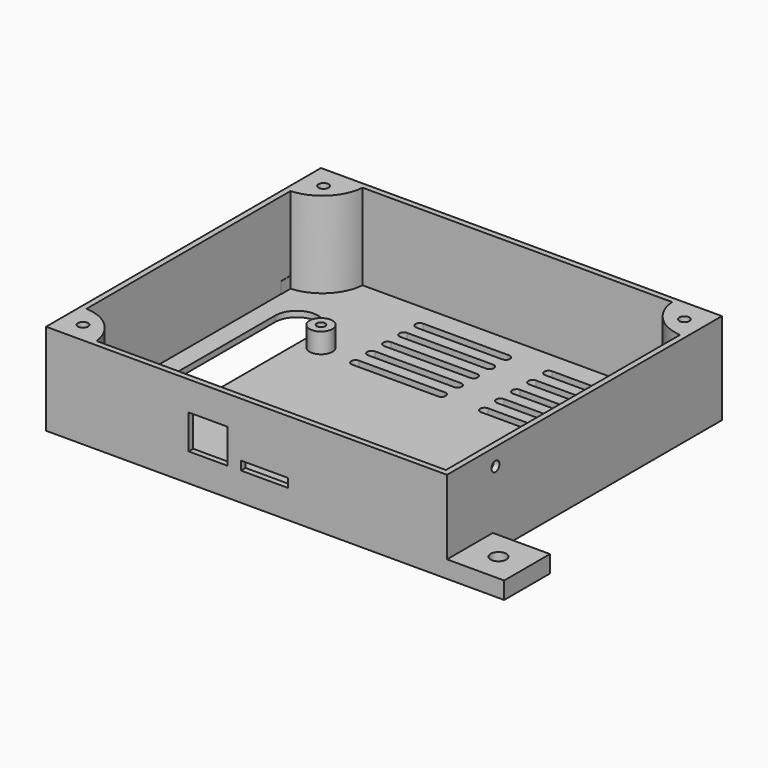
from build123d import *

# Parameters (mm, degrees)
SKETCH_W        = 140
SKETCH_H        = 120
PAD_DEPTH       = 32
THICKNESS_T     = -2
SKETCH001_R     = 4
SKETCH001_R_2   = 1.45
PAD001_DEPTH    = 7
SKETCH002_W     = 16.413659
SKETCH002_H     = 3.088
SKETCH002_W_2   = 13.5
SKETCH002_H_2   = 12
POCKET_DEPTH    = 44.151
PAD002_DEPTH    = 32
SKETCH004_R     = 1.75
POCKET001_DEPTH = 58.836
SKETCH005_R     = 1.75
POCKET002_DEPTH = 32.001001
SKETCH006_W     = 20
SKETCH006_H     = 20
SKETCH006_R     = 2.75
PAD003_DEPTH    = 6
POCKET003_DEPTH = 29
POCKET004_DEPTH = 32.001001


with BuildPart() as part:
    # Sketch → Pad (new body)
    with BuildSketch(Plane.XY):
        with Locations((-11.165, 15.85)):
            Rectangle(SKETCH_W, SKETCH_H)
    extrude(amount=PAD_DEPTH)

    # Thickness
    thickness_openings = [part.faces().sort_by_distance(p)[0] for p in [
        (-11.165, 15.85, 32),
    ]]
    offset(amount=THICKNESS_T, openings=thickness_openings, kind=Kind.INTERSECTION)

    # Sketch001 (on DatumPlane) → Pad001 (join)
    with BuildSketch(Plane.XY.offset(2)):
        with Locations((-50.925, 38.05)):
            Circle(SKETCH001_R)
        with Locations((-50.925, 38.05)):
            Circle(SKETCH001_R_2, mode=Mode.SUBTRACT)
        with Locations((50.925, 38.05)):
            Circle(SKETCH001_R)
        with Locations((50.925, 38.05)):
            Circle(SKETCH001_R_2, mode=Mode.SUBTRACT)
        with Locations((-50.925, -38.05)):
            Circle(SKETCH001_R)
        with Locations((-50.925, -38.05)):
            Circle(SKETCH001_R_2, mode=Mode.SUBTRACT)
        with Locations((50.925, -38.05)):
            Circle(SKETCH001_R)
        with Locations((50.925, -38.05)):
            Circle(SKETCH001_R_2, mode=Mode.SUBTRACT)
    extrude(amount=PAD001_DEPTH)

    # Sketch002 → Pocket (cut, through all)
    with BuildSketch(Plane.XZ):
        with Locations((-4.884073, 11.44743)):
            Rectangle(SKETCH002_W, SKETCH002_H)
        with Locations((-24.636516, 15.847709)):
            Rectangle(SKETCH002_W_2, SKETCH002_H_2)
    extrude(amount=POCKET_DEPTH, mode=Mode.SUBTRACT)

    # Sketch003 → Pad002 (join)
    with BuildSketch(Plane.XY):
        with BuildLine():
            Line((43, 75), (58, 75))
            Line((58, 75), (58, 60))
            ThreePointArc((43, 75), (47.393398, 64.393398), (58, 60))
        make_face()
        with BuildLine():
            Line((-80, 75), (-65, 75))
            ThreePointArc((-80, 60), (-69.393398, 64.393398), (-65, 75))
            Line((-80, 75), (-80, 60))
        make_face()
        with BuildLine():
            Line((-80, -29), (-80, -44))
            Line((-80, -44), (-65, -44))
            ThreePointArc((-65, -44), (-69.393398, -33.393398), (-80, -29))
        make_face()
    extrude(amount=PAD002_DEPTH)

    # Sketch004 → Pocket001 (cut, through all)
    with BuildSketch(Plane.YZ):
        with Locations((-23, 26)):
            Circle(SKETCH004_R)
    extrude(amount=POCKET001_DEPTH, mode=Mode.SUBTRACT)

    # Sketch005 → Pocket002 (cut, through all)
    with BuildSketch(Plane.XY):
        with Locations((-74, 68)):
            Circle(SKETCH005_R)
        with Locations((52, 68)):
            Circle(SKETCH005_R)
        with Locations((-74, -37)):
            Circle(SKETCH005_R)
    extrude(amount=POCKET002_DEPTH, mode=Mode.SUBTRACT)

    # Sketch006 → Pad003 (join)
    with BuildSketch(Plane.XY):
        with Locations((68.8, -34.15)):
            Rectangle(SKETCH006_W, SKETCH006_H)
        with Locations((68.8, -34.15)):
            Circle(SKETCH006_R, mode=Mode.SUBTRACT)
        with Locations((-89.1, 65.85)):
            Rectangle(SKETCH006_W, SKETCH006_H)
        with Locations((-89.1, 65.85)):
            Circle(SKETCH006_R, mode=Mode.SUBTRACT)
    extrude(amount=PAD003_DEPTH)

    # Sketch007 → Pocket003 (cut)
    with BuildSketch(Plane.XY):
        Polygon((-70.75, 68), (-72.375, 70.814583), (-75.625, 70.814583), (-77.25, 68), (-75.625, 65.185417), (-72.375, 65.185417), align=None)
        Polygon((55.25, 68), (53.625, 70.814583), (50.375, 70.814583), (48.75, 68), (50.375, 65.185417), (53.625, 65.185417), align=None)
        Polygon((-70.75, -37), (-72.375, -34.185417), (-75.625, -34.185417), (-77.25, -37), (-75.625, -39.814583), (-72.375, -39.814583), align=None)
    extrude(amount=POCKET003_DEPTH, mode=Mode.SUBTRACT)

    # Sketch008 → Pocket004 (cut, through all)
    with BuildSketch(Plane.XY):
        with BuildLine():
            ThreePointArc((-57.5, 45), (-65, 52.5), (-72.5, 45))
            Line((-72.5, 45), (-72.5, -10))
            ThreePointArc((-72.5, -10), (-65, -17.5), (-57.5, -10))
            Line((-57.5, -10), (-57.5, 45))
        make_face()
        with BuildLine():
            ThreePointArc((7, 66.5), (5.5, 65), (7, 63.5))
            Line((7, 63.5), (37, 63.5))
            ThreePointArc((37, 63.5), (38.5, 65), (37, 66.5))
            Line((37, 66.5), (7, 66.5))
        make_face()
        with BuildLine():
            ThreePointArc((-38, 66.5), (-39.5, 65), (-38, 63.5))
            Line((-38, 63.5), (-8, 63.5))
            ThreePointArc((-8, 63.5), (-6.5, 65), (-8, 66.5))
            Line((-8, 66.5), (-38, 66.5))
        make_face()
        with BuildLine():
            ThreePointArc((-38, 59.5), (-39.5, 58), (-38, 56.5))
            Line((-38, 56.5), (-8, 56.5))
            ThreePointArc((-8, 56.5), (-6.5, 58), (-8, 59.5))
            Line((-8, 59.5), (-38, 59.5))
        make_face()
        with BuildLine():
            ThreePointArc((7, 59.5), (5.5, 58), (7, 56.5))
            Line((7, 56.5), (37, 56.5))
            ThreePointArc((37, 56.5), (38.5, 58), (37, 59.5))
            Line((37, 59.5), (7, 59.5))
        make_face()
        with BuildLine():
            ThreePointArc((-38, 52.5), (-39.5, 51), (-38, 49.5))
            Line((-38, 49.5), (-8, 49.5))
            ThreePointArc((-8, 49.5), (-6.5, 51), (-8, 52.5))
            Line((-8, 52.5), (-38, 52.5))
        make_face()
        with BuildLine():
            ThreePointArc((7, 52.5), (5.5, 51), (7, 49.5))
            Line((7, 49.5), (37, 49.5))
            ThreePointArc((37, 49.5), (38.5, 51), (37, 52.5))
            Line((37, 52.5), (7, 52.5))
        make_face()
        with BuildLine():
            ThreePointArc((-38, 45.5), (-39.5, 44), (-38, 42.5))
            Line((-38, 42.5), (-8, 42.5))
            ThreePointArc((-8, 42.5), (-6.5, 44), (-8, 45.5))
            Line((-8, 45.5), (-38, 45.5))
        make_face()
        with BuildLine():
            ThreePointArc((7, 45.5), (5.5, 44), (7, 42.5))
            Line((7, 42.5), (37, 42.5))
            ThreePointArc((37, 42.5), (38.5, 44), (37, 45.5))
            Line((37, 45.5), (7, 45.5))
        make_face()
        with BuildLine():
            ThreePointArc((-38, 38.5), (-39.5, 37), (-38, 35.5))
            Line((-38, 35.5), (-8, 35.5))
            ThreePointArc((-8, 35.5), (-6.5, 37), (-8, 38.5))
            Line((-8, 38.5), (-38, 38.5))
        make_face()
        with BuildLine():
            ThreePointArc((7, 38.5), (5.5, 37), (7, 35.5))
            Line((7, 35.5), (37, 35.5))
            ThreePointArc((37, 35.5), (38.5, 37), (37, 38.5))
            Line((37, 38.5), (7, 38.5))
        make_face()
    extrude(amount=POCKET004_DEPTH, mode=Mode.SUBTRACT)


solid = part.part
